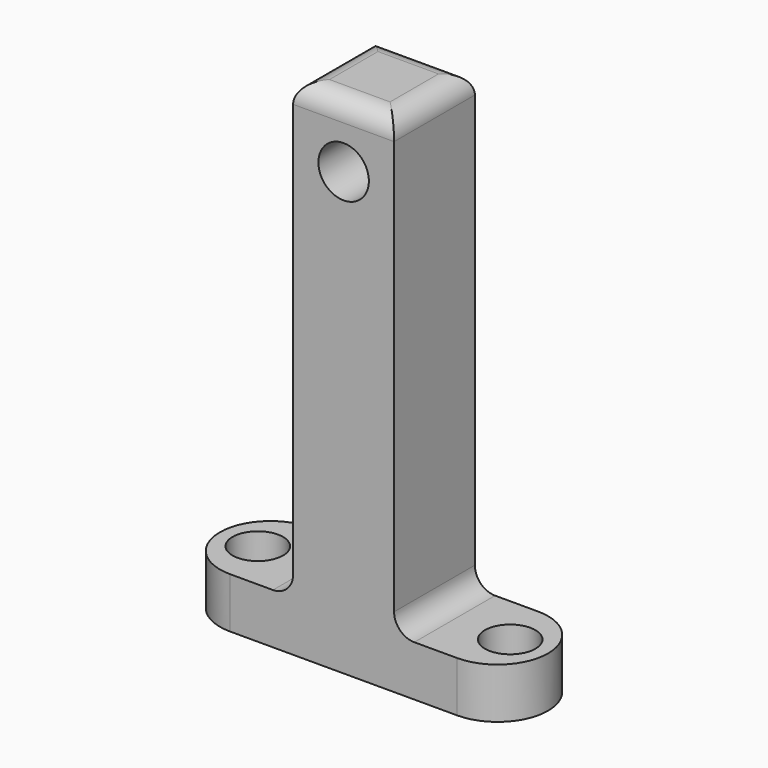
from build123d import *

# Parameters (mm, degrees)
F0_W     = 25.4
F0_H     = 25.4
F1_DEPTH = 12.7
F3_W     = 25.4
F3_H     = 25.4
F5_R     = 5.08
F7_D     = 12.7
F7_DEPTH = 25.4
F7_TIP   = 3.8154649308
F9_D     = 12.7
F9_DEPTH = 25.4
F9_TIP   = 3.8154649308


with BuildPart() as f1:
    # F0 (on Top) → F1 (new body)
    with BuildSketch(Plane.XY):
        with BuildLine():
            Line((15.875, 0), (0, 0))
            ThreePointArc((0, 0), (-12.7, -12.7), (0, -25.4))
            Line((0, -25.4), (15.875, -25.4))
            Line((15.875, -25.4), (15.875, 0))
        make_face()
        with Locations((28.575, -12.7)):
            Rectangle(F0_W, F0_H)
        with BuildLine():
            Line((57.15, 0), (41.275, 0))
            Line((41.275, 0), (41.275, -25.4))
            Line((41.275, -25.4), (57.15, -25.4))
            ThreePointArc((57.15, -25.4), (69.85, -12.7), (57.15, 0))
        make_face()
    extrude(amount=F1_DEPTH)

    # F0 (on Top) → F4 section 0
    with BuildSketch(Plane.XY):
        with Locations((28.575, -12.7)):
            Rectangle(F0_W, F0_H)
    # F3 (on offset) → F4 section 1
    with BuildSketch(Plane.XY.offset(127)):
        with Locations((28.575, -12.7)):
            Rectangle(F3_W, F3_H)
    loft()

    # F5
    f5_edges = [f1.edges().sort_by_distance(p)[0] for p in [
        (41.275, -12.7, 12.7),
        (15.875, -12.7, 12.7),
        (28.575, 0, 127),
        (15.875, -12.7, 127),
        (28.575, -25.4, 127),
        (41.275, -12.7, 127),
    ]]
    fillet(f5_edges, radius=F5_R)

    # F7
    with Locations(Plane(origin=(0, 0, 0), x_dir=(1, 0, 0), z_dir=(0, 1, 0))):
        with Locations((28.575, -111.125)):
            Hole(F7_D / 2, depth=F7_DEPTH)
            with Locations((0, 0, -(F7_DEPTH + F7_TIP / 2))):  # 118° drill point
                Cone(0, F7_D / 2, F7_TIP, mode=Mode.SUBTRACT)

    # F9
    with Locations(Plane.XY.offset(12.7)):
        with Locations((-3.175, -12.7), (60.325, -12.7)):
            Hole(F9_D / 2, depth=F9_DEPTH)
            with Locations((0, 0, -(F9_DEPTH + F9_TIP / 2))):  # 118° drill point
                Cone(0, F9_D / 2, F9_TIP, mode=Mode.SUBTRACT)


solid = f1.part
